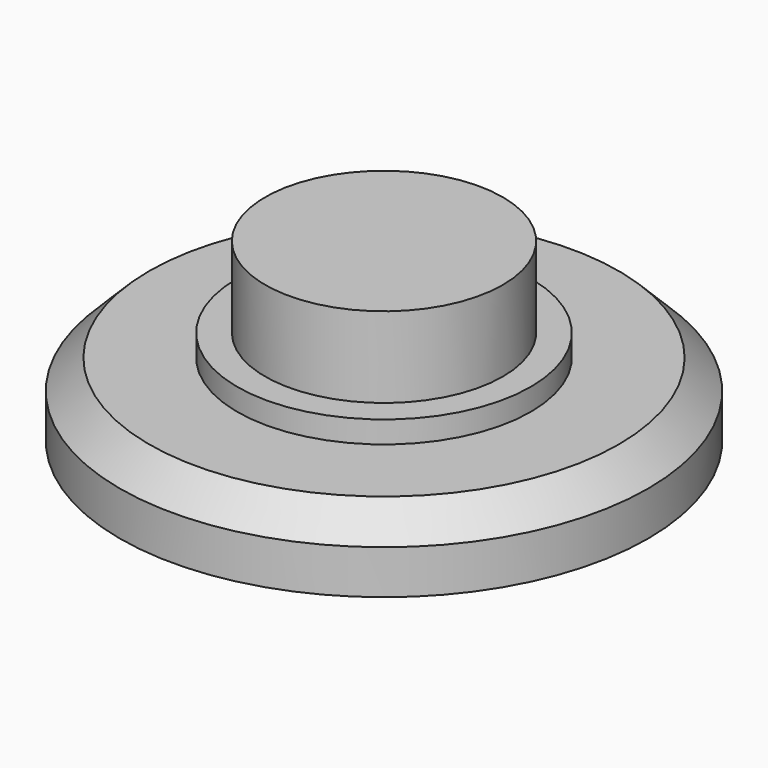
from build123d import *

# Parameters (mm, degrees)
F0_R     = 9
F0_R_2   = 4.05
F1_DEPTH = 2.5
F2_DEPTH = 6
F3_R     = 5
F3_R_2   = 4.05
F4_DEPTH = 0.75
F5_SIZE  = 1


with BuildPart() as f1:
    # F0 (on Top) → F1 (new body)
    with BuildSketch(Plane.XY):
        Circle(F0_R)
        Circle(F0_R_2, mode=Mode.SUBTRACT)
    extrude(amount=F1_DEPTH)

    # F0 (on Top) → F2 (join)
    with BuildSketch(Plane.XY):
        Circle(F0_R_2)
    extrude(amount=F2_DEPTH)

    # F5
    f5_edges = [f1.edges().sort_by_distance(p)[0] for p in [
        (-9, 0, 2.5),
    ]]
    chamfer(f5_edges, length=F5_SIZE)


with BuildPart() as f4:
    # F3 (on face) → F4 (new body, symmetric)
    with BuildSketch(Plane.XY.offset(2.5)):
        Circle(F3_R)
        Circle(F3_R_2, mode=Mode.SUBTRACT)
    extrude(amount=F4_DEPTH, both=True)


solid = Compound([f1.part, f4.part])
